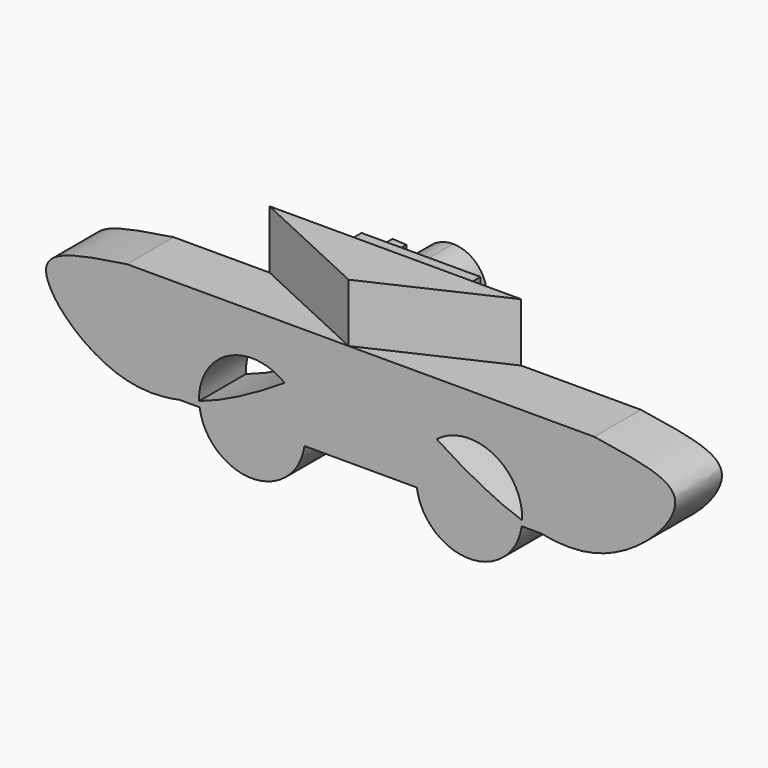
from build123d import *

# Parameters (mm, degrees)
F1_DEPTH  = 25.4
F3_DEPTH  = 25.4
F5_DEPTH  = 29.718
F6_W      = 51.7507717013
F6_H      = 32.4542075396
F7_DEPTH  = 16.002
F9_DEPTH  = 9.652
F8_R      = 5.4354243812
F10_DEPTH = 9.906


with BuildPart() as f1:
    # F0 (on Front) → F1 (new body)
    with BuildSketch(Plane.XZ):
        with BuildLine():
            add(Edge.make_bspline(
                [(0, 0), (-7.2897283, -1.7897330566), (-14.8951404218, -1.670387598), (-22.8579116206, 0)],
                knots=[0.5519320833, 0.5519320833, 0.5519320833, 0.5519320833, 0.6673599665, 0.6673599665, 0.6673599665, 0.6673599665], degree=3))
            Line((0, 0), (-22.8579116206, 0))
        make_face()
        with BuildLine():
            Line((-22.8579116206, 0), (0, 0))
            Line((0, 0), (0, 44.5155379022))
            Line((0, 44.5155379022), (-101.6, 44.5155379022))
            add(Edge.make_bspline(
                [(-68.5272835275, 21.3313974768), (-78.9925734165, 28.0747606793), (-89.9973463161, 35.9700412347), (-101.6, 44.5155379022)],
                knots=[0.8708334463, 0.8708334463, 0.8708334463, 0.8708334463, 1, 1, 1, 1], degree=3))
            ThreePointArc((-68.5272835275, 21.3313974768), (-44.2668342264, 23.8746485463), (-31.3421689342, 3.1867159919))
            ThreePointArc((-31.3421689342, 3.1867159919), (-31.3463366195, 2.7486996352), (-31.3588381664, 2.3108418847))
            add(Edge.make_bspline(
                [(-22.8579116206, 0), (-25.647110234, 0.5851031828), (-28.4801553771, 1.3605130332), (-31.3588381664, 2.3108418847)],
                knots=[0.6673599665, 0.6673599665, 0.6673599665, 0.6673599665, 0.7077920326, 0.7077920326, 0.7077920326, 0.7077920326], degree=3))
        make_face()
        with BuildLine():
            Line((0, 44.5155379022), (0, 0))
            add(Edge.make_bspline(
                [(0, 44.5155379022), (23.3214331824, 41.0351589113), (49.3703629345, 35.9724451619), (18.3038264824, 4.4938524413), (0, 0)],
                knots=[0, 0, 0, 0, 0.2621034562, 0.5519320833, 0.5519320833, 0.5519320833, 0.5519320833], degree=3))
        make_face()
        with BuildLine():
            Line((-31.5638137301, 0), (-22.8579116206, 0))
            add(Edge.make_bspline(
                [(-22.8579116206, 0), (-25.647110234, 0.5851031828), (-28.4801553771, 1.3605130332), (-31.3588381664, 2.3108418847)],
                knots=[0.6673599665, 0.6673599665, 0.6673599665, 0.6673599665, 0.7077920326, 0.7077920326, 0.7077920326, 0.7077920326], degree=3))
            ThreePointArc((-31.3588381664, 2.3108418847), (-31.4321964371, 1.1528371057), (-31.5638137301, 0))
        make_face()
        with BuildLine():
            ThreePointArc((-77.1594360048, 0), (-54.3616248675, -19.8327399414), (-31.5638137301, 0))
            Line((-31.5638137301, 0), (-77.1594360048, 0))
        make_face()
        with BuildLine():
            Line((-77.1594360048, 0), (-31.5638137301, 0))
            ThreePointArc((-31.5638137301, 0), (-31.4321964371, 1.1528371057), (-31.3588381664, 2.3108418847))
            add(Edge.make_bspline(
                [(-31.3588381664, 2.3108418847), (-42.967062935, 6.1430219892), (-55.3173959076, 12.819538653), (-68.5272835275, 21.3313974768)],
                knots=[0.7077920326, 0.7077920326, 0.7077920326, 0.7077920326, 0.8708334463, 0.8708334463, 0.8708334463, 0.8708334463], degree=3))
            ThreePointArc((-68.5272835275, 21.3313974768), (-75.7001265591, 11.8217433237), (-77.1594360048, 0))
        make_face()
        with BuildLine():
            add(Edge.make_bspline(
                [(-68.5272835275, 21.3313974768), (-78.9925734165, 28.0747606793), (-89.9973463161, 35.9700412347), (-101.6, 44.5155379022)],
                knots=[0.8708334463, 0.8708334463, 0.8708334463, 0.8708334463, 1, 1, 1, 1], degree=3))
            Line((-101.6, 44.5155379022), (-101.6, 0))
            Line((-101.6, 0), (-77.1594360048, 0))
            ThreePointArc((-77.1594360048, 0), (-75.7001265591, 11.8217433237), (-68.5272835275, 21.3313974768))
        make_face()
        with BuildLine():
            Line((-101.6, 0), (-101.6, 44.5155379022))
            add(Edge.make_bspline(
                [(-134.6727164725, 21.3313974768), (-124.2074265835, 28.0747606793), (-113.2026536839, 35.9700412347), (-101.6, 44.5155379022)],
                knots=[0.8708334463, 0.8708334463, 0.8708334463, 0.8708334463, 1, 1, 1, 1], degree=3))
            ThreePointArc((-134.6727164725, 21.3313974768), (-128.1504425781, 13.2815066329), (-125.8189191992, 3.1867159919))
            ThreePointArc((-125.8189191992, 3.1867159919), (-125.8743972507, 1.5895086456), (-126.0405639952, 0))
            Line((-126.0405639952, 0), (-101.6, 0))
        make_face()
        with BuildLine():
            add(Edge.make_bspline(
                [(-134.6727164725, 21.3313974768), (-124.2074265835, 28.0747606793), (-113.2026536839, 35.9700412347), (-101.6, 44.5155379022)],
                knots=[0.8708334463, 0.8708334463, 0.8708334463, 0.8708334463, 1, 1, 1, 1], degree=3))
            Line((-101.6, 44.5155379022), (-203.2, 44.5155379022))
            add(Edge.make_bspline(
                [(-203.2, 44.5155379022), (-226.5214331824, 41.0351589113), (-252.5703629345, 35.9724451619), (-221.5038264824, 4.4938524413), (-203.2, 0)],
                knots=[0, 0, 0, 0, 0.2621034562, 0.5519320833, 0.5519320833, 0.5519320833, 0.5519320833], degree=3))
            Line((-203.2, 0), (-180.3420883794, 0))
            add(Edge.make_bspline(
                [(-180.3420883794, 0), (-177.552889766, 0.5851031828), (-174.7198446229, 1.3605130332), (-171.8411618336, 2.3108418847)],
                knots=[0.6673599665, 0.6673599665, 0.6673599665, 0.6673599665, 0.7077920326, 0.7077920326, 0.7077920326, 0.7077920326], degree=3))
            ThreePointArc((-171.8411618336, 2.3108418847), (-159.3249900183, 23.6788183658), (-134.6727164725, 21.3313974768))
        make_face()
        with BuildLine():
            ThreePointArc((-125.8189191992, 3.1867159919), (-128.1504425781, 13.2815066329), (-134.6727164725, 21.3313974768))
            add(Edge.make_bspline(
                [(-171.8411618336, 2.3108418847), (-160.232937065, 6.1430219892), (-147.8826040924, 12.819538653), (-134.6727164725, 21.3313974768)],
                knots=[0.7077920326, 0.7077920326, 0.7077920326, 0.7077920326, 0.8708334463, 0.8708334463, 0.8708334463, 0.8708334463], degree=3))
            ThreePointArc((-171.8411618336, 2.3108418847), (-171.7678035629, 1.1528371057), (-171.6361862699, 0))
            Line((-171.6361862699, 0), (-126.0405639952, 0))
            ThreePointArc((-126.0405639952, 0), (-125.8743972507, 1.5895086456), (-125.8189191992, 3.1867159919))
        make_face()
        with BuildLine():
            ThreePointArc((-171.6361862699, 0), (-148.8383751325, -19.8327399414), (-126.0405639952, 0))
            Line((-126.0405639952, 0), (-171.6361862699, 0))
        make_face()
        with BuildLine():
            ThreePointArc((-171.6361862699, 0), (-171.7678035629, 1.1528371057), (-171.8411618336, 2.3108418847))
            add(Edge.make_bspline(
                [(-180.3420883794, 0), (-177.552889766, 0.5851031828), (-174.7198446229, 1.3605130332), (-171.8411618336, 2.3108418847)],
                knots=[0.6673599665, 0.6673599665, 0.6673599665, 0.6673599665, 0.7077920326, 0.7077920326, 0.7077920326, 0.7077920326], degree=3))
            Line((-180.3420883794, 0), (-171.6361862699, 0))
        make_face()
        with BuildLine():
            Line((-180.3420883794, 0), (-203.2, 0))
            add(Edge.make_bspline(
                [(-203.2, 0), (-195.9102717, -1.7897330566), (-188.3048595782, -1.670387598), (-180.3420883794, 0)],
                knots=[0.5519320833, 0.5519320833, 0.5519320833, 0.5519320833, 0.6673599665, 0.6673599665, 0.6673599665, 0.6673599665], degree=3))
        make_face()
    extrude(amount=F1_DEPTH)

    # F2 (on face) → F3 (join)
    with BuildSketch(Plane.XY.offset(44.5155379022)):
        Polygon((-106.8298220634, -25.4), (-106.8298220634, 0), (-161.563180387, 0), align=None)
        Polygon((-52.0964637399, 0), (-106.8298220634, 0), (-106.8298220634, -25.4), align=None)
    extrude(amount=F3_DEPTH)

    # F4 (on face) → F5 (join)
    with BuildSketch(Plane(origin=(0, 0, 0), x_dir=(-1, 0, 0), z_dir=(0, 1, 0))):
        with BuildLine():
            ThreePointArc((120.0825944543, 47.0518544316), (115.8076187762, 57.3725586924), (105.4869145155, 61.6475343704))
            ThreePointArc((105.4869145155, 61.6475343704), (95.1662102547, 36.7311501709), (120.0825944543, 47.0518544316))
        make_face()
    extrude(amount=F5_DEPTH)

    # F6 (on face) → F7 (join)
    with BuildSketch(Plane(origin=(0, 0, 0), x_dir=(-1, 0, 0), z_dir=(0, 1, 0))):
        with Locations((108.4294952452, 45.8226948977)):
            Rectangle(F6_W, F6_H)
    extrude(amount=F7_DEPTH)

    # F8 (on face) → F9 (join)
    with BuildSketch(Plane(origin=(0, 16.002, 0), x_dir=(-1, 0, 0), z_dir=(0, 1, 0))):
        Polygon((128.5798549652, 57.735029608), (122.539177537, 57.4203245342), (122.539177537, 48.4996959567), (128.5798549652, 48.4996959567), align=None)
    extrude(amount=F9_DEPTH)

    # F8 (on face) → F10 (join)
    with BuildSketch(Plane(origin=(0, 16.002, 0), x_dir=(-1, 0, 0), z_dir=(0, 1, 0))):
        with Locations((124.7914806008, 38.2719635963)):
            Circle(F8_R)
    extrude(amount=F10_DEPTH)


solid = f1.part
